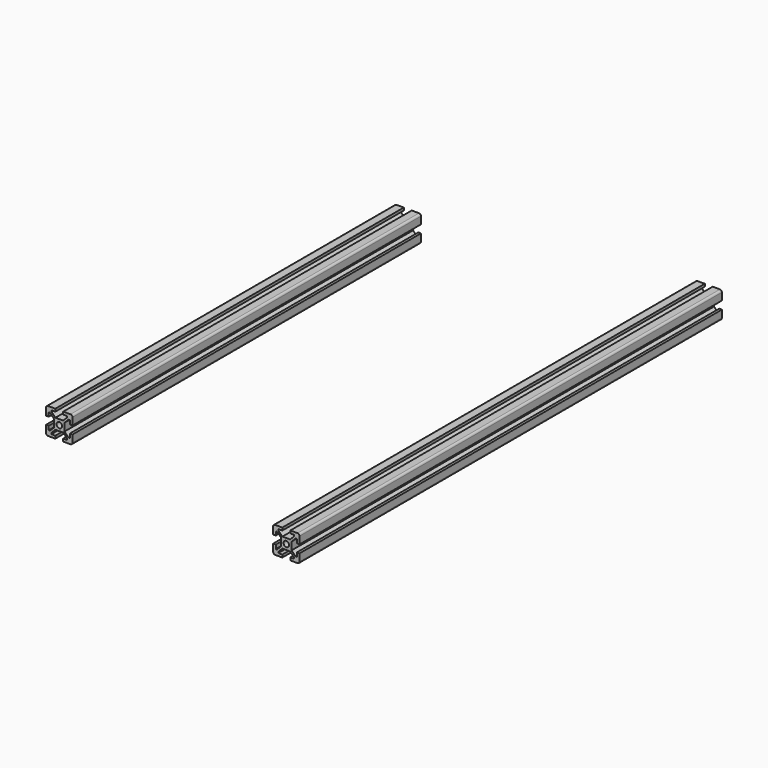
from build123d import *

# Parameters (mm, degrees)
F0_R     = 2.1
F1_DEPTH = 200
F2_R     = 1.5
F4_DEPTH = 165
F5_R     = 1.5


with BuildPart() as f1:
    # F0 (on Front) → F1 (new body, symmetric)
    with BuildSketch(Plane.XZ):
        Polygon((2.93934, 4), (-2.93934, 4), (-6, 7.06066), (-6, 8), (-3, 8), (-3, 10), (-10, 10), (-10, 3), (-8, 3), (-8, 6), (-7.06066, 6), (-4, 2.93934), (-4, -2.93934), (-7.06066, -6), (-8, -6), (-8, -3), (-10, -3), (-10, -10), (-3, -10), (-3, -8), (-6, -8), (-6, -7.06066), (-2.93934, -4), (2.93934, -4), (6, -7.06066), (6, -8), (3, -8), (3, -10), (10, -10), (10, -3), (8, -3), (8, -6), (7.06066, -6), (4, -2.93934), (4, 2.93934), (7.06066, 6), (8, 6), (8, 3), (10, 3), (10, 10), (3, 10), (3, 8), (6, 8), (6, 7.06066), align=None)
        Circle(F0_R, mode=Mode.SUBTRACT)
    extrude(amount=F1_DEPTH, both=True)

    # F2
    f2_edges = [f1.edges().sort_by_distance(p)[0] for p in [
        (10, 0, -10),
        (10, 0, 10),
        (-10, 0, 10),
        (-10, 0, -10),
    ]]
    fillet(f2_edges, radius=F2_R)


with BuildPart() as f1_1:
    # F3: moved
    add(f1.part.moved(Location((200, 0, 0))))


with BuildPart() as f4:
    # F0 (on Front) → F4 (new body, symmetric)
    with BuildSketch(Plane.XZ):
        Polygon((2.93934, 4), (-2.93934, 4), (-6, 7.06066), (-6, 8), (-3, 8), (-3, 10), (-10, 10), (-10, 3), (-8, 3), (-8, 6), (-7.06066, 6), (-4, 2.93934), (-4, -2.93934), (-7.06066, -6), (-8, -6), (-8, -3), (-10, -3), (-10, -10), (-3, -10), (-3, -8), (-6, -8), (-6, -7.06066), (-2.93934, -4), (2.93934, -4), (6, -7.06066), (6, -8), (3, -8), (3, -10), (10, -10), (10, -3), (8, -3), (8, -6), (7.06066, -6), (4, -2.93934), (4, 2.93934), (7.06066, 6), (8, 6), (8, 3), (10, 3), (10, 10), (3, 10), (3, 8), (6, 8), (6, 7.06066), align=None)
        Circle(F0_R, mode=Mode.SUBTRACT)
    extrude(amount=F4_DEPTH, both=True)

    # F5
    f5_edges = [f4.edges().sort_by_distance(p)[0] for p in [
        (10, 0, 10),
        (-10, 0, 10),
        (10, 0, -10),
        (-10, 0, -10),
    ]]
    fillet(f5_edges, radius=F5_R)


solid = Compound([f1_1.part, f4.part])
